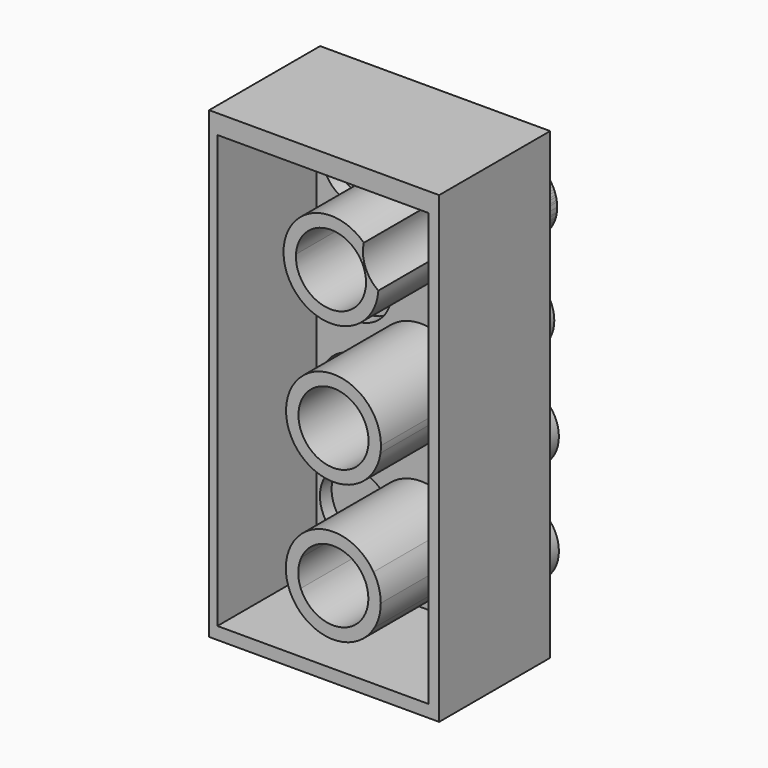
from build123d import *

# Parameters (mm, degrees)
F0_W     = 1.443438814
F0_H     = 0.1311709134
F0_W_2   = 0.0569663659
F0_H_2   = 0.0845968217
F0_H_3   = 2.9592322649
F0_W_3   = 0.0745948201
F2_DEPTH = 0.95
F0_R     = 0.245
F3_DEPTH = 0.1
F4_DEPTH = 0.2
F5_DEPTH = 0.85
F1_R     = 0.24


with BuildPart() as f2:
    # F0 (on Front) → F2 (new body)
    with BuildSketch(Plane.XZ):
        with Locations((-2.03290832, -5.2825209706)):
            Rectangle(F0_W, F0_H)
        with Locations((-2.7831109099, -5.2825209706)):
            Rectangle(F0_W_2, F0_H)
        Polygon((-1.2365940929, -5.2169355139), (-1.311188913, -5.2169355139), (-1.2365940929, -5.3481064273), align=None)
        Polygon((-1.2365940929, -5.3481064273), (-1.311188913, -5.2169355139), (-1.311188913, -5.3481064273), align=None)
        Polygon((-1.2365940929, -8.3919355139), (-1.2365940929, -8.3073386922), (-1.311188913, -8.3919355139), align=None)
        Polygon((-1.2365940929, -8.3073386922), (-1.311188913, -8.3073386922), (-1.311188913, -8.3919355139), align=None)
        Polygon((-2.754627727, -8.3919355139), (-2.8115940929, -8.3073386922), (-2.8115940929, -8.3919355139), align=None)
        with Locations((-2.03290832, -8.3496371031)):
            Rectangle(F0_W, F0_H_2)
        Polygon((-2.754627727, -8.3073386922), (-2.8115940929, -8.3073386922), (-2.754627727, -8.3919355139), align=None)
        with Locations((-2.7831109099, -6.8277225598)):
            Rectangle(F0_W_2, F0_H_3)
        with Locations((-1.2738915029, -6.8277225598)):
            Rectangle(F0_W_3, F0_H_3)
    extrude(amount=F2_DEPTH)


with BuildPart() as f3:
    # F0 (on Front) → F3 (new body)
    with BuildSketch(Plane.XZ):
        with Locations((-2.03290832, -6.8277225598)):
            Rectangle(F0_W, F0_H_3)
        with Locations((-2.4879257899, -7.8623386922)):
            Circle(F0_R, mode=Mode.SUBTRACT)
        with Locations((-2.4814080831, -7.1723694759)):
            Circle(F0_R, mode=Mode.SUBTRACT)
        with Locations((-1.5817713412, -7.8623386922)):
            Circle(F0_R, mode=Mode.SUBTRACT)
        with Locations((-1.5817980101, -7.1723386928)):
            Circle(F0_R, mode=Mode.SUBTRACT)
        with Locations((-2.4876111003, -6.4823973587)):
            Circle(F0_R, mode=Mode.SUBTRACT)
        with Locations((-2.47666426, -5.7924841999)):
            Circle(F0_R, mode=Mode.SUBTRACT)
        with Locations((-1.6132080927, -6.4830539862)):
            Circle(F0_R, mode=Mode.SUBTRACT)
        with Locations((-1.5935088741, -5.7931064273)):
            Circle(F0_R, mode=Mode.SUBTRACT)
    extrude(amount=F3_DEPTH)


with BuildPart() as f4:
    # F0 (on Front) → F4 (new body)
    with BuildSketch(Plane.XZ):
        with Locations((-1.5817713412, -7.8623386922)):
            Circle(F0_R)
    extrude(amount=-F4_DEPTH)


with BuildPart() as f4b:
    # F0 (on Front) → F4, piece 2 (new body)
    with BuildSketch(Plane.XZ):
        with Locations((-2.4879257899, -7.8623386922)):
            Circle(F0_R)
    extrude(amount=-F4_DEPTH)


with BuildPart() as f4c:
    # F0 (on Front) → F4, piece 3 (new body)
    with BuildSketch(Plane.XZ):
        with Locations((-2.4814080831, -7.1723694759)):
            Circle(F0_R)
    extrude(amount=-F4_DEPTH)


with BuildPart() as f4d:
    # F0 (on Front) → F4, piece 4 (new body)
    with BuildSketch(Plane.XZ):
        with Locations((-1.5817980101, -7.1723386928)):
            Circle(F0_R)
    extrude(amount=-F4_DEPTH)


with BuildPart() as f4e:
    # F0 (on Front) → F4, piece 5 (new body)
    with BuildSketch(Plane.XZ):
        with Locations((-1.6132080927, -6.4830539862)):
            Circle(F0_R)
    extrude(amount=-F4_DEPTH)


with BuildPart() as f4f:
    # F0 (on Front) → F4, piece 6 (new body)
    with BuildSketch(Plane.XZ):
        with Locations((-2.4876111003, -6.4823973587)):
            Circle(F0_R)
    extrude(amount=-F4_DEPTH)


with BuildPart() as f4g:
    # F0 (on Front) → F4, piece 7 (new body)
    with BuildSketch(Plane.XZ):
        with Locations((-2.47666426, -5.7924841999)):
            Circle(F0_R)
    extrude(amount=-F4_DEPTH)


with BuildPart() as f4h:
    # F0 (on Front) → F4, piece 8 (new body)
    with BuildSketch(Plane.XZ):
        with Locations((-1.5935088741, -5.7931064273)):
            Circle(F0_R)
    extrude(amount=-F4_DEPTH)


with BuildPart() as f4i:
    # F1 (on face) → F4, piece 9 (new body)
    with BuildSketch(Plane.XZ):
        with BuildLine():
            ThreePointArc((-1.8323435665, -5.7384896745), (-1.7583141773, -5.8455671742), (-1.7322434982, -5.9731064273))
            ThreePointArc((-1.7322434982, -5.9731064273), (-1.7324206424, -5.9838354697), (-1.7329518819, -5.9945528162))
            ThreePointArc((-1.7329518819, -5.9945528162), (-1.4797954996, -6.0101185663), (-1.3485088741, -5.7931064273))
            ThreePointArc((-1.3485088741, -5.7931064273), (-1.5660270587, -5.5496526333), (-1.8323435665, -5.7384896745))
        make_face()
    extrude(amount=-F4_DEPTH)


with BuildPart() as f5:
    # F1 (on face) → F5 (new body)
    with BuildSketch(Plane.XZ):
        with BuildLine():
            ThreePointArc((-2.3197442943, -8.0404958828), (-2.0366037275, -8.1979141516), (-1.7580913349, -8.0324453054))
            ThreePointArc((-1.7580913349, -8.0324453054), (-1.7898626689, -7.9916561287), (-1.81236679, -7.9451078835))
            ThreePointArc((-1.81236679, -7.9451078835), (-2.0322833849, -8.1127795361), (-2.2641207454, -7.9620196935))
            ThreePointArc((-2.2641207454, -7.9620196935), (-2.2880433495, -8.0040144135), (-2.3197442943, -8.0404958828))
        make_face()
        with BuildLine():
            ThreePointArc((-2.2596406784, -7.7733954079), (-2.2815425757, -7.7303122976), (-2.3114757886, -7.6923669387))
            ThreePointArc((-2.3114757886, -7.6923669387), (-2.3661700775, -7.8652305455), (-2.3197442943, -8.0404958828))
            ThreePointArc((-2.3197442943, -8.0404958828), (-2.2880433495, -8.0040144135), (-2.2641207454, -7.9620196935))
            ThreePointArc((-2.2641207454, -7.9620196935), (-2.2811940426, -7.8672488345), (-2.2596406784, -7.7733954079))
        make_face()
        with BuildLine():
            ThreePointArc((-1.8159410343, -7.7903001272), (-1.7956091852, -7.7427628733), (-1.7657542059, -7.7005508512))
            ThreePointArc((-1.7657542059, -7.7005508512), (-2.0363883949, -7.5479840723), (-2.3114757886, -7.6923669387))
            ThreePointArc((-2.3114757886, -7.6923669387), (-2.2815425757, -7.7303122976), (-2.2596406784, -7.7733954079))
            ThreePointArc((-2.2596406784, -7.7733954079), (-2.0321244662, -7.6331215319), (-1.8159410343, -7.7903001272))
        make_face()
        with BuildLine():
            ThreePointArc((-1.7580913349, -8.0324453054), (-1.7268929988, -7.9553933592), (-1.7162617087, -7.872947533))
            ThreePointArc((-1.7162617087, -7.872947533), (-1.7288797803, -7.7832673747), (-1.7657542059, -7.7005508512))
            ThreePointArc((-1.7657542059, -7.7005508512), (-1.7956091852, -7.7427628733), (-1.8159410343, -7.7903001272))
            ThreePointArc((-1.8159410343, -7.7903001272), (-1.8049600351, -7.8309770783), (-1.8012617087, -7.872947533))
            ThreePointArc((-1.8012617087, -7.872947533), (-1.8040542252, -7.9094524608), (-1.81236679, -7.9451078835))
            ThreePointArc((-1.81236679, -7.9451078835), (-1.7898626689, -7.9916561287), (-1.7580913349, -8.0324453054))
        make_face()
    extrude(amount=F5_DEPTH)


with BuildPart() as f5b:
    # F1 (on face) → F5, piece 2 (new body)
    with BuildSketch(Plane.XZ):
        with BuildLine():
            ThreePointArc((-1.7181717257, -6.9688019401), (-1.7157345425, -6.945932759), (-1.7149207897, -6.9229484794))
            ThreePointArc((-1.7149207897, -6.9229484794), (-2.0574021784, -6.5984189722), (-2.3630401807, -6.9578606423))
            ThreePointArc((-2.3630401807, -6.9578606423), (-2.270428065, -7.047820562), (-2.2364080831, -7.1723694759))
            ThreePointArc((-2.2364080831, -7.1723694759), (-2.2364524408, -7.1770313725), (-2.2365854976, -7.181691581))
            ThreePointArc((-2.2365854976, -7.181691581), (-2.029293644, -7.2477746849), (-1.8267644509, -7.1682837097))
            ThreePointArc((-1.8267644509, -7.1682837097), (-1.7969800791, -7.05519913), (-1.7181717257, -6.9688019401))
        make_face()
        with Locations((-2.0399207897, -6.9229484794)):
            Circle(F1_R, mode=Mode.SUBTRACT)
        with BuildLine():
            ThreePointArc((-2.2364080831, -7.1723694759), (-2.270428065, -7.047820562), (-2.3630401807, -6.9578606423))
            ThreePointArc((-2.3630401807, -6.9578606423), (-2.3228853629, -7.0828110776), (-2.2365854976, -7.181691581))
            ThreePointArc((-2.2365854976, -7.181691581), (-2.2364524408, -7.1770313725), (-2.2364080831, -7.1723694759))
        make_face()
        with BuildLine():
            ThreePointArc((-1.8267644509, -7.1682837097), (-1.7544751879, -7.0783376953), (-1.7181717257, -6.9688019401))
            ThreePointArc((-1.7181717257, -6.9688019401), (-1.7969800791, -7.05519913), (-1.8267644509, -7.1682837097))
        make_face()
    extrude(amount=F5_DEPTH)


with BuildPart() as f5c:
    # F1 (on face) → F5, piece 3 (new body)
    with BuildSketch(Plane.XZ):
        with BuildLine():
            ThreePointArc((-1.7329518819, -5.9945528162), (-1.8219067457, -5.8817597535), (-1.8323435665, -5.7384896745))
            ThreePointArc((-1.8323435665, -5.7384896745), (-2.0340137843, -5.6489376744), (-2.2463923092, -5.7088192212))
            ThreePointArc((-2.2463923092, -5.7088192212), (-2.2353743639, -5.7500084889), (-2.23166426, -5.7924841999))
            ThreePointArc((-2.23166426, -5.7924841999), (-2.231800773, -5.800661774), (-2.2322101598, -5.8088302351))
            ThreePointArc((-2.2322101598, -5.8088302351), (-1.9689032434, -5.7499562551), (-1.8172434982, -5.9731064273))
            ThreePointArc((-1.8172434982, -5.9731064273), (-2.0643694688, -6.2130006135), (-2.2968203361, -5.9588607698))
            ThreePointArc((-2.2968203361, -5.9588607698), (-2.3349810345, -5.9923613211), (-2.3792280945, -6.0172756446))
            ThreePointArc((-2.3792280945, -6.0172756446), (-2.0458236769, -6.297905731), (-1.7329518819, -5.9945528162))
        make_face()
        with BuildLine():
            ThreePointArc((-2.23166426, -5.7924841999), (-2.2353743639, -5.7500084889), (-2.2463923092, -5.7088192212))
            ThreePointArc((-2.2463923092, -5.7088192212), (-2.3557408705, -5.8445594759), (-2.3792280945, -6.0172756446))
            ThreePointArc((-2.3792280945, -6.0172756446), (-2.3349810345, -5.9923613211), (-2.2968203361, -5.9588607698))
            ThreePointArc((-2.2968203361, -5.9588607698), (-2.277672327, -5.8781794478), (-2.2322101598, -5.8088302351))
            ThreePointArc((-2.2322101598, -5.8088302351), (-2.231800773, -5.800661774), (-2.23166426, -5.7924841999))
        make_face()
    extrude(amount=F5_DEPTH)


solid = Compound([f2.part, f3.part, f4.part, f4b.part, f4c.part, f4d.part, f4e.part, f4f.part, f4g.part, f4h.part, f4i.part, f5.part, f5b.part, f5c.part])
